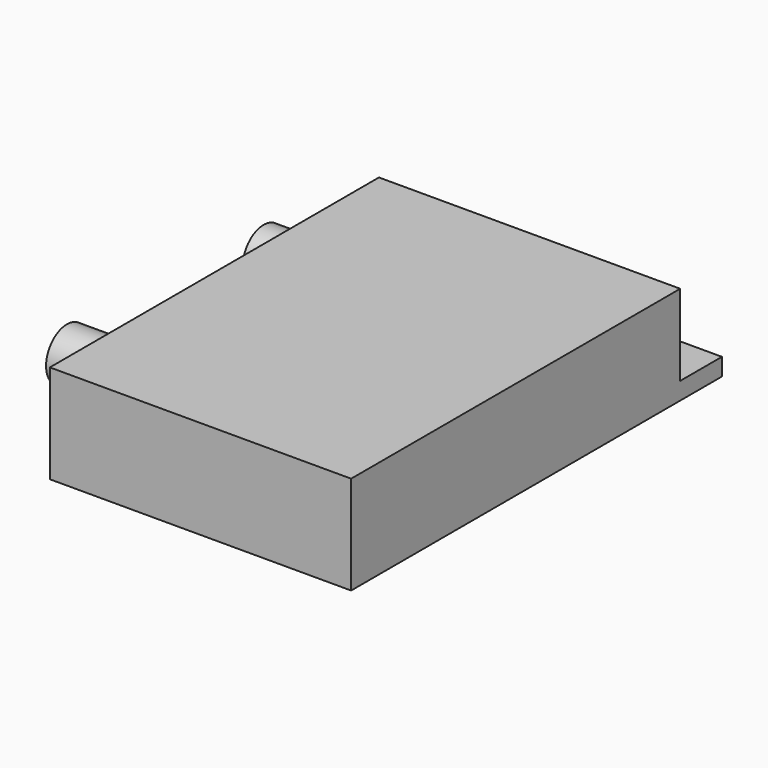
from build123d import *

# Parameters (mm, degrees)
F0_W     = 52
F0_H     = 80
F1_DEPTH = 3
F2_W     = 52
F2_H     = 71
F3_DEPTH = 14
F4_R     = 4.5
F5_DEPTH = 10


with BuildPart() as f1:
    # F0 (on Top) → F1 (new body)
    with BuildSketch(Plane.XY):
        Rectangle(F0_W, F0_H)
    extrude(amount=F1_DEPTH)

    # F2 (on face) → F3 (join)
    with BuildSketch(Plane.XY.offset(3)):
        with Locations((0, -4.5)):
            Rectangle(F2_W, F2_H)
    extrude(amount=F3_DEPTH)

    # F4 (on face) → F5 (join)
    with BuildSketch(Plane(origin=(-26, 0, 0), x_dir=(0, -1, 0), z_dir=(-1, 0, 0))):
        with Locations((23.814216, 9.224292)):
            Circle(F4_R)
        with Locations((-18.612601, 7.083489)):
            Circle(F4_R)
    extrude(amount=F5_DEPTH)


solid = f1.part
